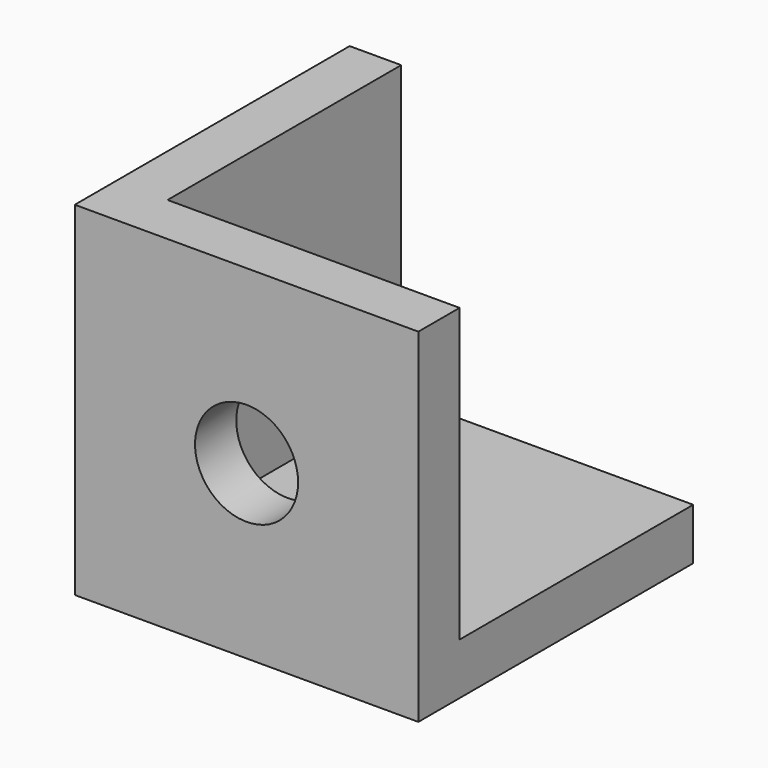
from build123d import *

# Parameters (mm, degrees)
F0_W     = 10
F0_H     = 10
F0_R     = 1.500154
F3_DEPTH = 1.5
F2_W     = 10
F2_H     = 10
F2_R     = 1.500154
F4_DEPTH = 1.5
F1_W     = 10
F1_H     = 10
F1_R     = 1.500154
F5_DEPTH = 1.5


with BuildPart() as f3:
    # F0 (on Front) → F3 (new body)
    with BuildSketch(Plane.XZ):
        with Locations((5, 5)):
            Rectangle(F0_W, F0_H)
        with Locations((5, 5)):
            Circle(F0_R, mode=Mode.SUBTRACT)
    extrude(amount=-F3_DEPTH)

    # F2 (on Top) → F4 (join)
    with BuildSketch(Plane.XY):
        with Locations((5, 5)):
            Rectangle(F2_W, F2_H)
        with Locations((5, 5)):
            Circle(F2_R, mode=Mode.SUBTRACT)
    extrude(amount=F4_DEPTH)

    # F1 (on Right) → F5 (join)
    with BuildSketch(Plane.YZ):
        with Locations((5, 5)):
            Rectangle(F1_W, F1_H)
        with Locations((5, 5)):
            Circle(F1_R, mode=Mode.SUBTRACT)
    extrude(amount=F5_DEPTH)


solid = f3.part
